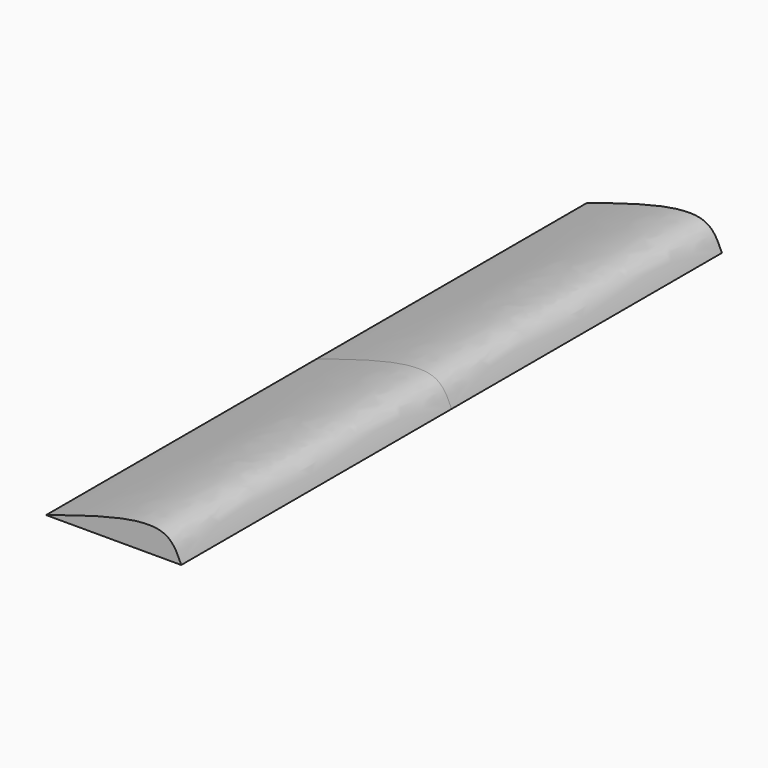
from build123d import *

# Parameters (mm, degrees)
F1_DEPTH = 254
F3_D     = 10.16
F3_DEPTH = 12.7
F3_TIP   = 3.0523719447


with BuildPart() as f1:
    # F0 (on Front) → F1 (new body, symmetric)
    with BuildSketch(Plane.XZ):
        with BuildLine():
            add(Edge.make_bspline(
                [(45.2490176511, 0), (42.1792826341, 7.1471659187), (32.9621595343, 28.6070990142), (-20.6165201509, 11.4457881199), (-56.3509823489, 0)],
                knots=[0, 0, 0, 0, 0.3330469805, 1, 1, 1, 1], degree=3))
            Line((-56.3509823489, 0), (45.2490176511, 0))
        make_face()
    extrude(amount=F1_DEPTH, both=True)

    # F3
    with Locations(Plane(origin=(0, 0, 0), x_dir=(1, 0, 0), z_dir=(0, 0, -1))):
        with Locations((0, 0)):
            Hole(F3_D / 2, depth=F3_DEPTH)
            with Locations((0, 0, -(F3_DEPTH + F3_TIP / 2))):  # 118° drill point
                Cone(0, F3_D / 2, F3_TIP, mode=Mode.SUBTRACT)


solid = f1.part
